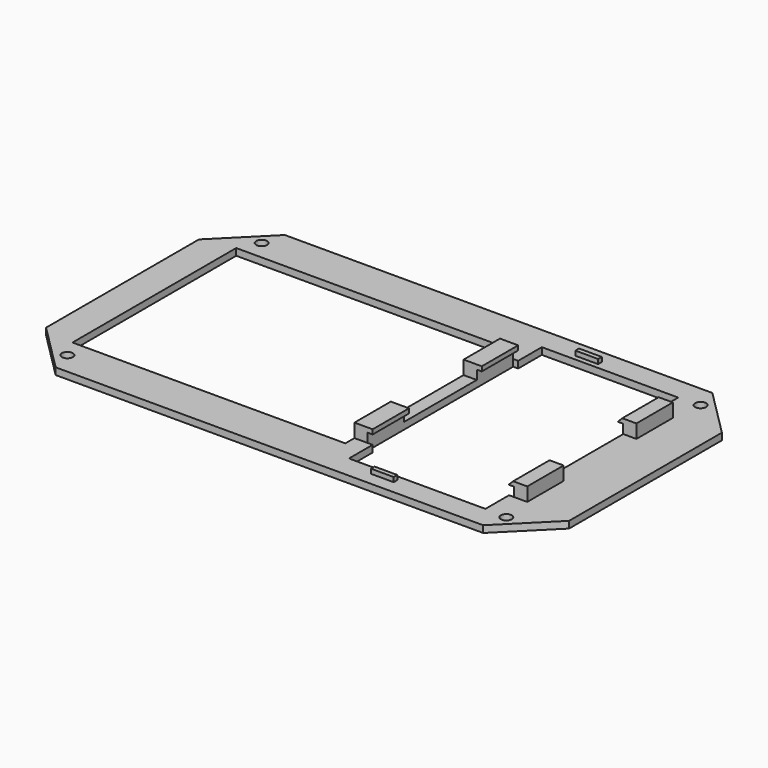
from build123d import *

# Parameters (mm, degrees)
SKETCH_R        = 1.2
PAD_DEPTH       = 1.5
SKETCH001_W     = 60
SKETCH001_H     = 45
SKETCH001_W_2   = 30
SKETCH001_H_2   = 53
POCKET_DEPTH    = 5
SKETCH002_W     = 4
SKETCH002_H     = 10
PAD001_DEPTH    = 3
SKETCH003_W     = 32.2
SKETCH003_H     = 40
POCKET001_DEPTH = 3.5
SKETCH004_W     = 5
SKETCH004_H     = 1
PAD002_DEPTH    = 1
CHAMFER_SIZE    = 0.9


with BuildPart() as pad:
    # Sketch → Pad (new body)
    with BuildSketch(Plane.XY):
        Polygon((-47, 31.5), (47, 31.5), (57.5, 21), (57.5, -21), (47, -31.5), (-47, -31.5), (-57.5, -21), (-57.5, 21), align=None)
        with Locations((-48.25, 26.7)):
            Circle(SKETCH_R, mode=Mode.SUBTRACT)
        with Locations((48.25, 26.7)):
            Circle(SKETCH_R, mode=Mode.SUBTRACT)
        with Locations((-48.25, -26.7)):
            Circle(SKETCH_R, mode=Mode.SUBTRACT)
        with Locations((48.25, -26.7)):
            Circle(SKETCH_R, mode=Mode.SUBTRACT)
    extrude(amount=PAD_DEPTH)


with BuildPart() as pocket:
    # Pocket base: copy of Pad
    add(pad.part)

    # Sketch001 → Pocket (cut)
    with BuildSketch(Plane.XY.offset(1.5)):
        with Locations((-20.5, 0)):
            Rectangle(SKETCH001_W, SKETCH001_H)
        with Locations((28.5, 0)):
            Rectangle(SKETCH001_W_2, SKETCH001_H_2)
    extrude(amount=-POCKET_DEPTH, mode=Mode.SUBTRACT)


with BuildPart() as common:
    # Common base: copy of Pad
    add(pad.part)

    # Common: intersect Pocket
    add(pocket.part, mode=Mode.INTERSECT)


with BuildPart() as fusion:
    # Pad001 base: copy of Common
    add(common.part)

    # Sketch002 → Pad001 (new body)
    with BuildSketch(Plane.XY.offset(1.5)):
        with Locations((11.5, 15)):
            Rectangle(SKETCH002_W, SKETCH002_H)
        with Locations((11.5, -15)):
            Rectangle(SKETCH002_W, SKETCH002_H)
        with Locations((45.5, 15)):
            Rectangle(SKETCH002_W, SKETCH002_H)
        with Locations((45.5, -15)):
            Rectangle(SKETCH002_W, SKETCH002_H)
    extrude(amount=PAD001_DEPTH)

    # Fusion: union Common
    add(common.part)


with BuildPart() as pocket001:
    # Pocket001 base: copy of Fusion
    add(fusion.part)

    # Sketch003 → Pocket001 (cut)
    with BuildSketch(Plane(origin=(0, 0, 0), x_dir=(1, 0, 0), z_dir=(0, 0, -1))):
        with Locations((28.5, 0)):
            Rectangle(SKETCH003_W, SKETCH003_H)
    extrude(amount=-POCKET001_DEPTH, mode=Mode.SUBTRACT)


with BuildPart() as common001:
    # Common001 base: copy of Fusion
    add(fusion.part)

    # Common001: intersect Pocket001
    add(pocket001.part, mode=Mode.INTERSECT)


with BuildPart() as chamfer_body:
    # Pad002 base: copy of Common001
    add(common001.part)

    # Sketch004 → Pad002 (new body)
    with BuildSketch(Plane.XY.offset(1.5)):
        with Locations((22.5, 28.1)):
            Rectangle(SKETCH004_W, SKETCH004_H)
        with Locations((22.5, -28.1)):
            Rectangle(SKETCH004_W, SKETCH004_H)
    extrude(amount=PAD002_DEPTH)

    # Fusion001: union Common001
    add(common001.part)

    # Chamfer
    chamfer_edges = [chamfer_body.edges().sort_by_distance(p)[0] for p in [
        (43.5, -15, 4.5),
        (43.5, 15, 4.5),
    ]]
    chamfer(chamfer_edges, length=CHAMFER_SIZE)


solid = chamfer_body.part
